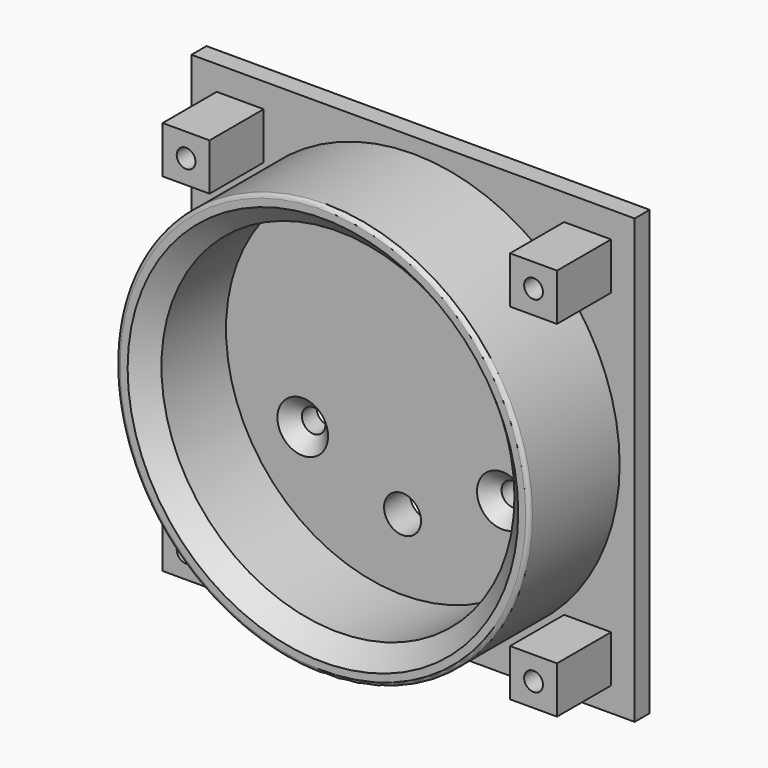
from build123d import *

# Parameters (mm, degrees)
F0_R            = 24.257
F1_DEPTH        = 4.318
F2_R            = 27.94
F2_R_2          = 23.876
F3_DEPTH        = 17.78
F0_W            = 59.944
F0_H            = 59.944
F0_W_2          = 6.35
F0_H_2          = 6.35
F5_DEPTH        = 2.54
F6_DEPTH        = 11.684
F7_D            = 2.54
F8_SIZE         = 2.54
F9_R            = 0.508
F11_D           = 3.175
F11_CSINK_D     = 6.858
F11_CSINK_ANGLE = 90
F12_D           = 5


with BuildPart() as f1:
    # F0 (on Front) → F1 (new body)
    with BuildSketch(Plane.XZ):
        Circle(F0_R)
    extrude(amount=F1_DEPTH)

    # F2 (on Front) → F3 (join)
    with BuildSketch(Plane.XZ):
        Circle(F2_R)
        Circle(F2_R_2, mode=Mode.SUBTRACT)
    extrude(amount=F3_DEPTH)

    # F0 (on Front) → F5 (join)
    with BuildSketch(Plane.XZ):
        Rectangle(F0_W, F0_H)
        with Locations((-23.3818002729, -23.495)):
            Rectangle(F0_W_2, F0_H_2, mode=Mode.SUBTRACT)
        Circle(F0_R, mode=Mode.SUBTRACT)
        with Locations((23.6081997271, -23.495)):
            Rectangle(F0_W_2, F0_H_2, mode=Mode.SUBTRACT)
        with Locations((-23.3818002729, 23.495)):
            Rectangle(F0_W_2, F0_H_2, mode=Mode.SUBTRACT)
        with Locations((23.6081997271, 23.2674991059)):
            Rectangle(F0_W_2, F0_H_2, mode=Mode.SUBTRACT)
    extrude(amount=F5_DEPTH)

    # F0 (on Front) → F6 (join)
    with BuildSketch(Plane.XZ):
        with Locations((-23.3818002729, -23.495)):
            Rectangle(F0_W_2, F0_H_2)
        with Locations((-23.3818002729, 23.495)):
            Rectangle(F0_W_2, F0_H_2)
        with Locations((23.6081997271, 23.2674991059)):
            Rectangle(F0_W_2, F0_H_2)
        with Locations((23.6081997271, -23.495)):
            Rectangle(F0_W_2, F0_H_2)
    extrude(amount=F6_DEPTH)

    # F7 (through all)
    with Locations(Plane(origin=(0, 0, 0), x_dir=(1, 0, 0), z_dir=(0, 1, 0))):
        with Locations((-23.3818002729, -23.495), (23.6081997271, -23.2674991059), (-23.3818002729, 23.495), (23.6081997271, 23.495)):
            Hole(F7_D / 2)

    # F8
    f8_edges = [f1.edges().sort_by_distance(p)[0] for p in [
        (-23.876, -17.78, 0),
    ]]
    chamfer(f8_edges, length=F8_SIZE)

    # F9
    f9_edges = [f1.edges().sort_by_distance(p)[0] for p in [
        (-27.94, -17.78, 0),
    ]]
    fillet(f9_edges, radius=F9_R)

    # F11 (through all)
    with Locations(Plane.XZ.offset(4.318)):
        with Locations((-13.5, -8.257), (13.5, -8.257)):
            CounterSinkHole(F11_D / 2, F11_CSINK_D / 2, counter_sink_angle=F11_CSINK_ANGLE)

    # F12 (through all)
    with Locations(Plane.XZ.offset(4.318)):
        with Locations((0, -14.257)):
            Hole(F12_D / 2)


solid = f1.part
